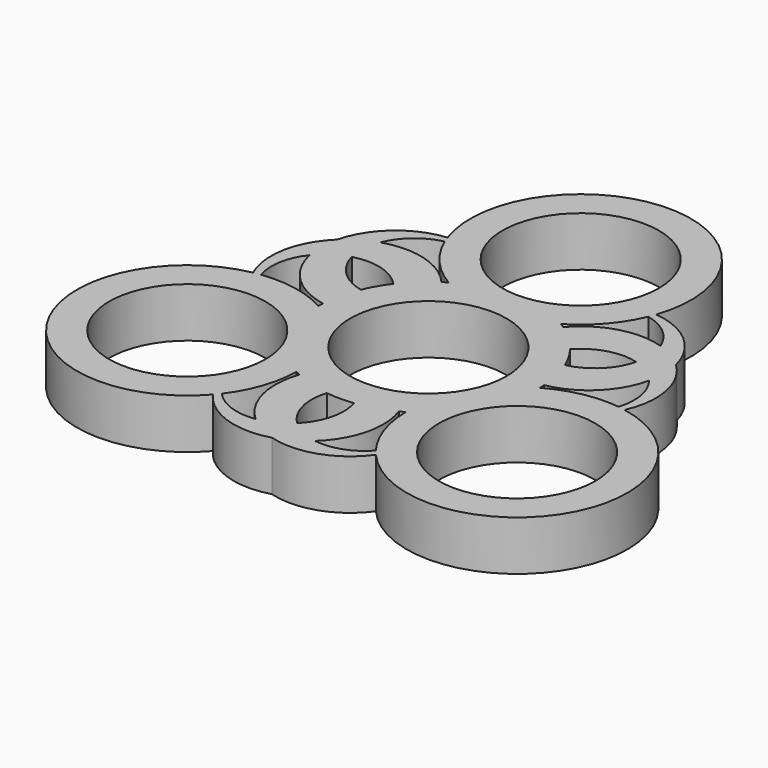
from build123d import *

# Parameters (mm, degrees)
F0_R     = 11
F1_DEPTH = 7


with BuildPart() as f1:
    # F0 (on Top) → F1 (new body)
    with BuildSketch(Plane.XY):
        with BuildLine():
            ThreePointArc((23.833164, 13.760084), (20.515106, 19.193274), (14.671021, 21.718296))
            ThreePointArc((14.671021, 21.718296), (0, 42.30852), (-14.671021, 21.718296))
            ThreePointArc((-14.671021, 21.718296), (-14.499554, 21.246796), (-14.312938, 20.781084))
            ThreePointArc((-14.312938, 20.781084), (-11.703012, 16.590266), (-7.909089, 13.431021))
            ThreePointArc((-7.909089, 13.431021), (-8.241073, 13.229917), (-8.567947, 13.02061))
            ThreePointArc((-8.567947, 13.02061), (-13.660283, 16.283128), (-19.707555, 16.203056))
            ThreePointArc((-19.707555, 16.203056), (-21.911373, 15.219709), (-23.833164, 13.760084))
            ThreePointArc((-23.833164, 13.760084), (-26.879416, 8.169966), (-26.144107, 1.846329))
            ThreePointArc((-26.144107, 1.846329), (-36.640253, -21.15426), (-11.473085, -23.564625))
            ThreePointArc((-11.473085, -23.564625), (-6.36431, -27.36324), (0, -27.520168))
            ThreePointArc((0, -27.520168), (6.36431, -27.36324), (11.473085, -23.564625))
            ThreePointArc((11.473085, -23.564625), (36.640253, -21.15426), (26.144107, 1.846329))
            ThreePointArc((26.144107, 1.846329), (26.879416, 8.169966), (23.833164, 13.760084))
        make_face()
        with Locations((-23.197948, -13.393341)):
            Circle(F0_R, mode=Mode.SUBTRACT)
        with BuildLine():
            ThreePointArc((-4.178481, -25.168771), (-7.80676, -24.808476), (-10.840478, -22.78591))
            ThreePointArc((-10.840478, -22.78591), (-8.516086, -18.430238), (-7.67706, -13.564983))
            ThreePointArc((-7.67706, -13.564983), (-7.336908, -13.751938), (-6.992206, -13.930365))
            ThreePointArc((-6.992206, -13.930365), (-7.271461, -19.971716), (-4.178481, -25.168771))
        make_face(mode=Mode.SUBTRACT)
        with BuildLine():
            ThreePointArc((-15.58615, 0.133962), (-20.219097, 1.839973), (-25.153416, 2.004826))
            ThreePointArc((-25.153416, 2.004826), (-25.38815, 5.643386), (-23.886036, 8.965715))
            ThreePointArc((-23.886036, 8.965715), (-20.931744, 3.688588), (-15.560153, 0.909755))
            ThreePointArc((-15.560153, 0.909755), (-15.577981, 0.52202), (-15.58615, 0.133962))
        make_face(mode=Mode.SUBTRACT)
        with BuildLine():
            ThreePointArc((0, -23.096415), (-2.032917, -19.552468), (-1.915963, -15.468519))
            ThreePointArc((-1.915963, -15.468519), (0, -15.586725), (1.915963, -15.468519))
            ThreePointArc((1.915963, -15.468519), (2.032917, -19.552468), (0, -23.096415))
        make_face(mode=Mode.SUBTRACT)
        with BuildLine():
            ThreePointArc((7.67706, -13.564983), (8.516086, -18.430238), (10.840478, -22.78591))
            ThreePointArc((10.840478, -22.78591), (7.80676, -24.808476), (4.178481, -25.168771))
            ThreePointArc((4.178481, -25.168771), (7.271461, -19.971716), (6.992206, -13.930365))
            ThreePointArc((6.992206, -13.930365), (7.336908, -13.751938), (7.67706, -13.564983))
        make_face(mode=Mode.SUBTRACT)
        with Locations((23.197948, -13.393341)):
            Circle(F0_R, mode=Mode.SUBTRACT)
        Circle(F0_R, mode=Mode.SUBTRACT)
        with BuildLine():
            ThreePointArc((23.886036, 8.965715), (25.38815, 5.643386), (25.153416, 2.004826))
            ThreePointArc((25.153416, 2.004826), (20.219097, 1.839973), (15.58615, 0.133962))
            ThreePointArc((15.58615, 0.133962), (15.577981, 0.52202), (15.560153, 0.909755))
            ThreePointArc((15.560153, 0.909755), (20.931744, 3.688588), (23.886036, 8.965715))
        make_face(mode=Mode.SUBTRACT)
        with BuildLine():
            ThreePointArc((-20.002082, 11.548207), (-15.916475, 11.536792), (-12.438149, 9.393533))
            ThreePointArc((-12.438149, 9.393533), (-13.4985, 7.793363), (-14.354112, 6.074987))
            ThreePointArc((-14.354112, 6.074987), (-17.949392, 8.015676), (-20.002082, 11.548207))
        make_face(mode=Mode.SUBTRACT)
        with BuildLine():
            ThreePointArc((20.002082, 11.548207), (17.949392, 8.015676), (14.354112, 6.074987))
            ThreePointArc((14.354112, 6.074987), (13.4985, 7.793363), (12.438149, 9.393533))
            ThreePointArc((12.438149, 9.393533), (15.916475, 11.536792), (20.002082, 11.548207))
        make_face(mode=Mode.SUBTRACT)
        with BuildLine():
            ThreePointArc((8.567947, 13.02061), (8.241073, 13.229917), (7.909089, 13.431021))
            ThreePointArc((7.909089, 13.431021), (11.703012, 16.590266), (14.312938, 20.781084))
            ThreePointArc((14.312938, 20.781084), (17.581391, 19.16509), (19.707555, 16.203056))
            ThreePointArc((19.707555, 16.203056), (13.660283, 16.283128), (8.567947, 13.02061))
        make_face(mode=Mode.SUBTRACT)
        with Locations((0, 26.786683)):
            Circle(F0_R, mode=Mode.SUBTRACT)
        with BuildLine():
            ThreePointArc((-14.312938, 20.781084), (-14.499554, 21.246796), (-14.671021, 21.718296))
            ThreePointArc((-14.671021, 21.718296), (-20.515106, 19.193274), (-23.833164, 13.760084))
            ThreePointArc((-23.833164, 13.760084), (-21.911373, 15.219709), (-19.707555, 16.203056))
            ThreePointArc((-19.707555, 16.203056), (-17.581391, 19.16509), (-14.312938, 20.781084))
        make_face()
    extrude(amount=F1_DEPTH)


solid = f1.part
